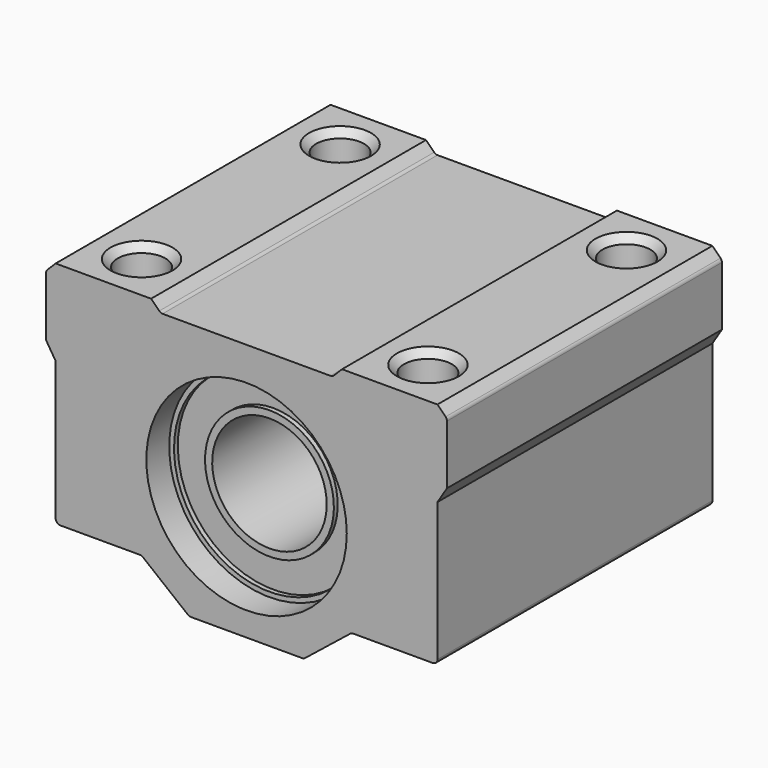
from build123d import *

# Parameters (mm, degrees)
SKETCH_R        = 10.5
PAD_DEPTH       = 18
SKETCH002_R     = 2.5
POCKET_DEPTH    = 12
SKETCH003_R     = 2.15
POCKET001_DEPTH = 24.001
CHAMFER_SIZE    = 0.75
CHAMFER001_SIZE = 0.75
FILLET_R        = 0.5


with BuildPart() as casing_fillet:
    # Sketch → Pad (new body, symmetric)
    with BuildSketch(Plane.XZ):
        Polygon((-20, -9), (-20, 6), (-21, 7.6), (-21, 14), (-20, 15), (-10, 15), (-9, 14), (9, 14), (10, 15), (20, 15), (21, 14), (21, 7.6), (20, 6), (20, -9), (11, -9), (6, -13), (-6, -13), (-11, -9), align=None)
        Circle(SKETCH_R, mode=Mode.SUBTRACT)
    extrude(amount=PAD_DEPTH, both=True)

    # Sketch002 → Pocket (cut)
    with BuildSketch(Plane(origin=(0, 0, 15), x_dir=(-1, 0, 0), z_dir=(0, 0, 1))):
        with Locations((-15, 13)):
            Circle(SKETCH002_R)
        with Locations((15, 13)):
            Circle(SKETCH002_R)
        with Locations((-15, -13)):
            Circle(SKETCH002_R)
        with Locations((15, -13)):
            Circle(SKETCH002_R)
    extrude(amount=-POCKET_DEPTH, mode=Mode.SUBTRACT)

    # Sketch003 → Pocket001 (cut, through all)
    with BuildSketch(Plane(origin=(0, 0, -9), x_dir=(1, 0, 0), z_dir=(0, 0, -1))):
        with Locations((-15, 13)):
            Circle(SKETCH003_R)
        with Locations((15, 13)):
            Circle(SKETCH003_R)
        with Locations((15, -13)):
            Circle(SKETCH003_R)
        with Locations((-15, -13)):
            Circle(SKETCH003_R)
    extrude(amount=-POCKET001_DEPTH, mode=Mode.SUBTRACT)

    # Chamfer
    chamfer_edges = [casing_fillet.edges().sort_by_distance(p)[0] for p in [
        (-12.5, -13, 15),
        (-12.5, 13, 15),
        (17.5, 13, 15),
        (17.5, -13, 15),
    ]]
    chamfer(chamfer_edges, length=CHAMFER_SIZE)

    # Chamfer001
    chamfer001_edges = [casing_fillet.edges().sort_by_distance(p)[0] for p in [
        (12.85, 13, -9),
        (-17.15, 13, -9),
        (-17.15, -13, -9),
        (12.85, -13, -9),
    ]]
    chamfer(chamfer001_edges, length=CHAMFER001_SIZE)

    # Fillet
    fillet_edges = [casing_fillet.edges().sort_by_distance(p)[0] for p in [
        (-9, 0, 14),
        (9, 0, 14),
        (21, 0, 14),
        (20, 0, -9),
        (6, 0, -13),
        (11, 0, -9),
        (-6, 0, -13),
        (-11, 0, -9),
        (-20, 0, -9),
        (-21, 0, 14),
    ]]
    fillet(fillet_edges, radius=FILLET_R)


with BuildPart() as obj1:
    # Sketch001 → Revolution (revolve)
    with BuildSketch(Plane.YZ):
        Polygon((-15, 11), (15, 11), (15, 10), (14.5, 10), (14.5, 6.75), (15, 6.75), (15, 6), (-15, 6), (-15, 6.75), (-14.5, 6.75), (-14.5, 10), (-15, 10), align=None)
    revolve(axis=Axis((0, 0, 0), (0, 1, 0)))

    # Fusion: union casing-fillet
    add(casing_fillet.part)


solid = obj1.part
